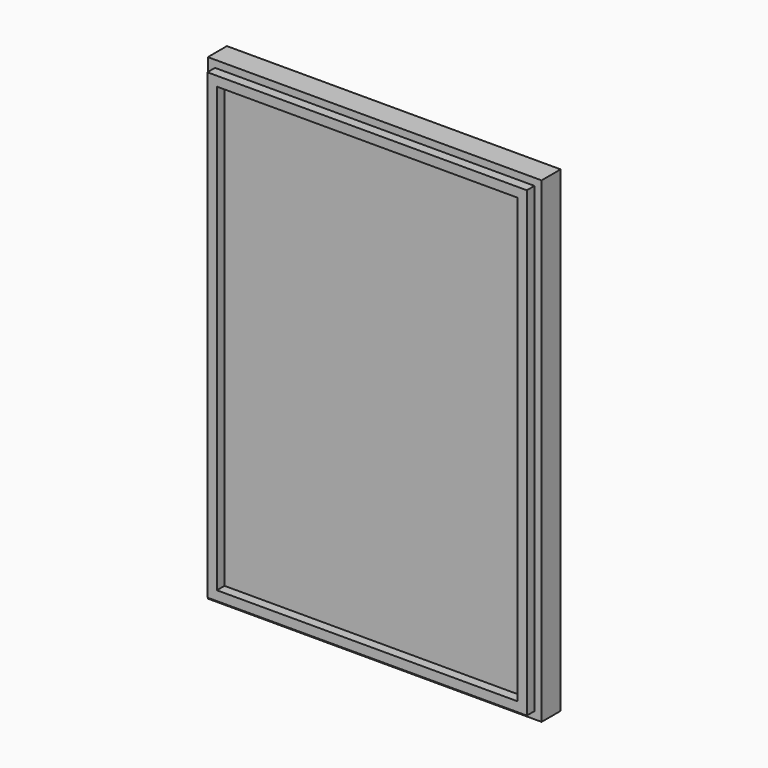
from build123d import *

# Parameters (mm, degrees)
F0_W     = 70
F0_H     = 100
F1_DEPTH = 5
F2_W     = 67
F2_H     = 97
F2_W_2   = 63
F2_H_2   = 93
F3_DEPTH = 2


with BuildPart() as f1:
    # F0 (on Front) → F1 (new body)
    with BuildSketch(Plane.XZ):
        with Locations((-3.935054, 14.352939)):
            Rectangle(F0_W, F0_H)
    extrude(amount=F1_DEPTH)

    # F2 (on face) → F3 (join)
    with BuildSketch(Plane.XZ.offset(5)):
        with Locations((-3.935054, 14.352939)):
            Rectangle(F2_W, F2_H)
        with Locations((-3.935054, 14.352939)):
            Rectangle(F2_W_2, F2_H_2, mode=Mode.SUBTRACT)
    extrude(amount=F3_DEPTH)


solid = f1.part
